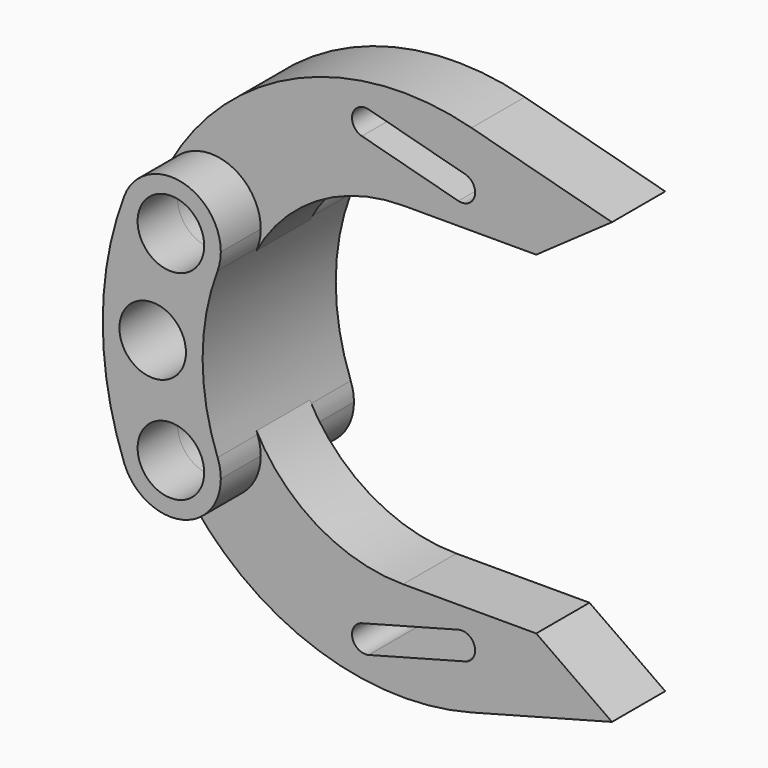
from build123d import *

# Parameters (mm, degrees)
F0_R     = 5
F2_DEPTH = 12.5
F1_R     = 5
F3_DEPTH = 5
F5_DEPTH = 17.501
F6_R     = 5
F7_DEPTH = 12.501


with BuildPart() as f2:
    # F0 (on Front) → F2 (new body, symmetric)
    with BuildSketch(Plane.XZ):
        with BuildLine():
            ThreePointArc((7.017341, 12.352941), (-2.647059, 7.982659), (-7.017341, 17.647059))
            ThreePointArc((-7.017341, 17.647059), (-10.235066, 0), (-7.017341, -17.647059))
            ThreePointArc((-7.017341, -17.647059), (-2.647059, -7.982659), (7.017341, -12.352941))
            ThreePointArc((7.017341, -12.352941), (4.764934, 0), (7.017341, 12.352941))
        make_face()
        with BuildLine():
            ThreePointArc((7.017341, 12.352941), (7.378349, 13.654649), (7.5, 15))
            ThreePointArc((7.5, 15), (1.345351, 22.378349), (-7.017341, 17.647059))
            ThreePointArc((-7.017341, 17.647059), (-2.647059, 7.982659), (7.017341, 12.352941))
        make_face()
        with Locations((0, 15)):
            Circle(F0_R, mode=Mode.SUBTRACT)
        with BuildLine():
            ThreePointArc((7.017341, -12.352941), (-2.647059, -7.982659), (-7.017341, -17.647059))
            ThreePointArc((-7.017341, -17.647059), (1.345351, -22.378349), (7.5, -15))
            ThreePointArc((7.5, -15), (7.378349, -13.654649), (7.017341, -12.352941))
        make_face()
        with Locations((0, -15)):
            Circle(F0_R, mode=Mode.SUBTRACT)
    extrude(amount=F2_DEPTH, both=True)

    # F6 (on Front) → F7 (cut, through all)
    with BuildSketch(Plane.XZ):
        with Locations((-2.735066, 0)):
            Circle(F6_R)
    extrude(amount=F7_DEPTH, mode=Mode.SUBTRACT)


with BuildPart() as f3:
    # F1 (on Front) → F3 (new body, symmetric)
    with BuildSketch(Plane.XZ):
        with BuildLine():
            Line((60.2613, 33.042649), (39.163152, 38.655478))
            ThreePointArc((39.163152, 38.655478), (13.126079, 36.767248), (-6.201086, 19.218593))
            ThreePointArc((-6.201086, 19.218593), (-6.617912, 18.437344), (-7.017341, 17.647059))
            ThreePointArc((-7.017341, 17.647059), (-3.05738, 8.151465), (6.65576, 11.542998))
            ThreePointArc((6.65576, 11.542998), (15.878185, 21.403288), (28.879473, 25.042649))
            Line((28.879473, 25.042649), (48.879473, 25.042649))
            Line((48.879473, 25.042649), (60.2613, 33.042649))
        make_face()
        with Locations((0, 15)):
            Circle(F1_R, mode=Mode.SUBTRACT)
        with BuildLine():
            ThreePointArc((-6.201086, -19.218593), (13.126079, -36.767248), (39.163152, -38.655478))
            Line((39.163152, -38.655478), (60.2613, -33.042649))
            Line((60.2613, -33.042649), (48.879473, -25.042649))
            Line((48.879473, -25.042649), (28.879473, -25.042649))
            ThreePointArc((28.879473, -25.042649), (15.878185, -21.403288), (6.65576, -11.542998))
            ThreePointArc((6.65576, -11.542998), (-3.05738, -8.151465), (-7.017341, -17.647059))
            ThreePointArc((-7.017341, -17.647059), (-6.617912, -18.437344), (-6.201086, -19.218593))
        make_face()
        with Locations((0, -15)):
            Circle(F1_R, mode=Mode.SUBTRACT)
    extrude(amount=F3_DEPTH, both=True)

    # F4 (on face) → F5 (cut, through all)
    with BuildSketch(Plane.XZ.offset(5)):
        with BuildLine():
            ThreePointArc((22.692121, 32.205592), (24.425245, 32.552748), (25.206305, 34.138366))
            ThreePointArc((25.206305, 34.138366), (24.791923, 35.357307), (23.720489, 36.07114))
            ThreePointArc((23.720489, 36.07114), (21.273531, 34.65255), (22.692121, 32.205592))
        make_face()
        with BuildLine():
            ThreePointArc((23.720489, 36.07114), (24.791923, 35.357307), (25.206305, 34.138366))
            ThreePointArc((25.206305, 34.138366), (24.425245, 32.552748), (22.692121, 32.205592))
            Line((22.692121, 32.205592), (37.187925, 28.349213))
            ThreePointArc((37.187925, 28.349213), (35.769335, 30.796171), (38.216293, 32.21476))
            Line((38.216293, 32.21476), (23.720489, 36.07114))
        make_face()
        with BuildLine():
            ThreePointArc((39.702109, 30.281987), (39.287727, 31.500927), (38.216293, 32.21476))
            ThreePointArc((38.216293, 32.21476), (35.769335, 30.796171), (37.187925, 28.349213))
            ThreePointArc((37.187925, 28.349213), (38.921049, 28.696369), (39.702109, 30.281987))
        make_face()
        with BuildLine():
            ThreePointArc((23.720489, -36.07114), (24.791923, -35.357307), (25.206305, -34.138366))
            ThreePointArc((25.206305, -34.138366), (24.425245, -32.552748), (22.692121, -32.205592))
            ThreePointArc((22.692121, -32.205592), (21.273531, -34.65255), (23.720489, -36.07114))
        make_face()
        with BuildLine():
            ThreePointArc((22.692121, -32.205592), (24.425245, -32.552748), (25.206305, -34.138366))
            ThreePointArc((25.206305, -34.138366), (24.791923, -35.357307), (23.720489, -36.07114))
            Line((23.720489, -36.07114), (38.216293, -32.21476))
            ThreePointArc((38.216293, -32.21476), (35.769335, -30.796171), (37.187925, -28.349213))
            Line((37.187925, -28.349213), (22.692121, -32.205592))
        make_face()
        with BuildLine():
            ThreePointArc((39.702109, -30.281987), (38.921049, -28.696369), (37.187925, -28.349213))
            ThreePointArc((37.187925, -28.349213), (35.769335, -30.796171), (38.216293, -32.21476))
            ThreePointArc((38.216293, -32.21476), (39.287727, -31.500927), (39.702109, -30.281987))
        make_face()
    extrude(amount=-F5_DEPTH, mode=Mode.SUBTRACT)


solid = Compound([f2.part, f3.part])
